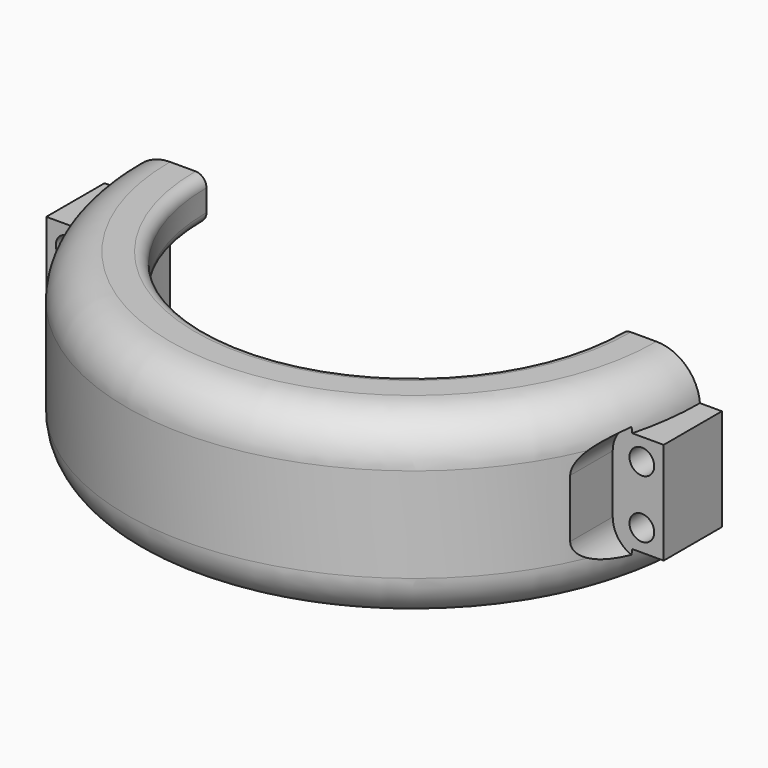
from build123d import *

# Parameters (mm, degrees)
REVOLUTION004_ANGLE     = 180
SKETCH055_W             = 14
SKETCH055_H             = 6
PAD024_DEPTH            = 10
SKETCH054_R             = 1.7
POCKET003_DEPTH         = 39.401
POCKET004_DEPTH         = 29.401
BODY012_PLACEMENT_ANGLE = 180


with BuildPart() as part:
    # Sketch053 → Revolution004 (revolve, symmetric)
    with BuildSketch(Plane.YZ) as revolution004_sk:
        with BuildLine():
            Line((33.4, 0), (33.4, 6.5))
            Line((33.4, 6.5), (29.9, 6.5))
            ThreePointArc((28.4, 8), (28.83934, 6.93934), (29.9, 6.5))
            Line((28.4, 8), (28.4, 11))
            ThreePointArc((29.9, 12.5), (28.83934, 12.06066), (28.4, 11))
            Line((29.9, 12.5), (33.4, 12.5))
            ThreePointArc((39.4, 6.5), (37.642641, 10.742641), (33.4, 12.5))
            Line((39.4, 6.5), (39.4, 0))
            Line((39.4, 0), (39.4, -6.5))
            ThreePointArc((33.4, -12.5), (37.642641, -10.742641), (39.4, -6.5))
            Line((33.4, -12.5), (29.9, -12.5))
            ThreePointArc((28.4, -11), (28.83934, -12.06066), (29.9, -12.5))
            Line((28.4, -11), (28.4, -8))
            ThreePointArc((29.9, -6.5), (28.83934, -6.93934), (28.4, -8))
            Line((29.9, -6.5), (33.4, -6.5))
            Line((33.4, -6.5), (33.4, 0))
        make_face()
    revolve(axis=Axis((0, 0, 0), (0, 0, 1)), revolution_arc=REVOLUTION004_ANGLE / 2)
    revolve(revolution004_sk.sketch, axis=Axis((0, 0, 0), (0, 0, -1)), revolution_arc=REVOLUTION004_ANGLE / 2)

    # Sketch055 (on Face18 of Revolution004) → Pad024 (new body)
    with BuildSketch(Plane(origin=(0, 0, 0), x_dir=(0, 0, -1), z_dir=(0, -1, 0))):
        with Locations((0, 39.4)):
            Rectangle(SKETCH055_W, SKETCH055_H)
        with Locations((0, -39.4)):
            Rectangle(SKETCH055_W, SKETCH055_H)
    extrude(amount=-PAD024_DEPTH)

    # Sketch054 (on Face18 of Revolution004) → Pocket003 (cut, through all)
    with BuildSketch(Plane(origin=(0, 0, 0), x_dir=(0, 0, -1), z_dir=(0, -1, 0))):
        with Locations((4, 39.4)):
            Circle(SKETCH054_R)
        with Locations((-4, 39.4)):
            Circle(SKETCH054_R)
        with Locations((-4, -39.4)):
            Circle(SKETCH054_R)
        with Locations((4, -39.4)):
            Circle(SKETCH054_R)
    extrude(amount=-POCKET003_DEPTH, mode=Mode.SUBTRACT)

    # Sketch056 (on Face22 of Pocket003) → Pocket004 (cut, through all)
    with BuildSketch(Plane.ZX.offset(10)):
        with BuildLine():
            Line((-4, 43.4), (4.000001, 43.4))
            ThreePointArc((4.000001, 35.4), (8, 39.4), (4.000001, 43.4))
            Line((-4, 35.4), (4.000001, 35.4))
            ThreePointArc((-4, 43.4), (-8, 39.4), (-4, 35.4))
        make_face()
        with BuildLine():
            Line((-4, -35.4), (4, -35.4))
            ThreePointArc((4, -43.4), (8, -39.4), (4, -35.4))
            Line((-4, -43.4), (4, -43.4))
            ThreePointArc((-4, -35.4), (-8, -39.4), (-4, -43.4))
        make_face()
    extrude(amount=POCKET004_DEPTH, mode=Mode.SUBTRACT)


with BuildPart() as part_1:
    # Body012 placement: moved
    add(part.part.moved(Location((0, 0, -0.5))).rotate(Axis((0, 0, -0.5), (1, 0, 0)), BODY012_PLACEMENT_ANGLE))


solid = part_1.part
